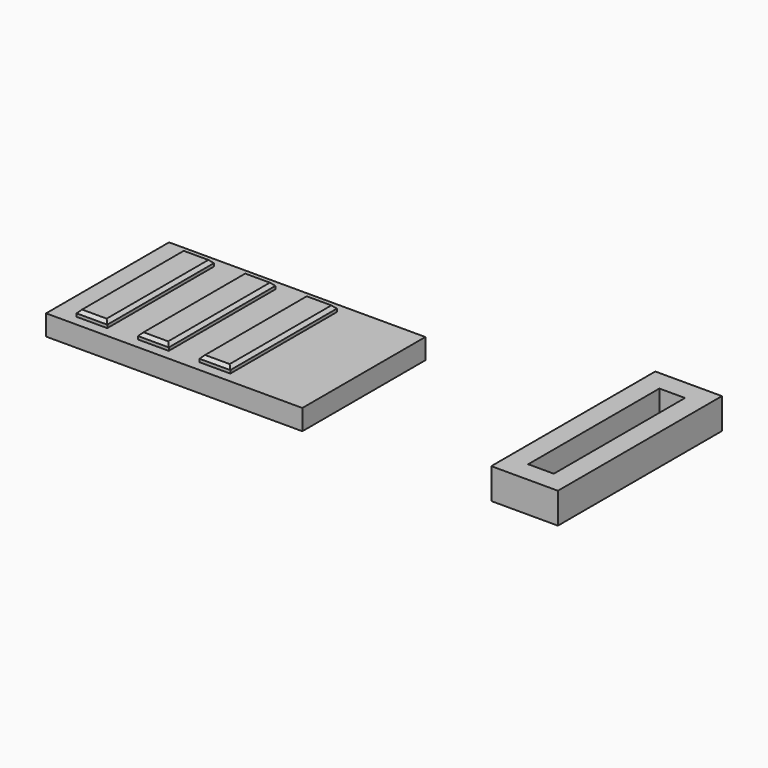
from build123d import *

# Parameters (mm, degrees)
F0_W     = 25
F0_H     = 15
F1_DEPTH = 2
F0_W_2   = 6.5
F0_H_2   = 20
F0_W_3   = 2.5
F0_H_3   = 16
F2_DEPTH = 3
F3_W     = 3
F3_H     = 13
F4_DEPTH = 0.6
F5_SIZE  = 0.3


with BuildPart() as f1:
    # F0 (on Top) → F1 (new body)
    with BuildSketch(Plane.XY):
        with Locations((-18.951613, 7.5)):
            Rectangle(F0_W, F0_H)
    extrude(amount=F1_DEPTH)

    # F3 (on face) → F4 (join)
    with BuildSketch(Plane.XY.offset(2)):
        with Locations((-27.781075, 7.5)):
            Rectangle(F3_W, F3_H)
        with Locations((-21.781075, 7.5)):
            Rectangle(F3_W, F3_H)
        with Locations((-15.781075, 7.5)):
            Rectangle(F3_W, F3_H)
    extrude(amount=F4_DEPTH)

    # F5
    f5_edges = [f1.edges().sort_by_distance(p)[0] for p in [
        (-27.781075, 14, 2.6),
        (-29.281075, 7.5, 2.6),
        (-27.781075, 1, 2.6),
        (-26.281075, 7.5, 2.6),
        (-21.781075, 14, 2.6),
        (-23.281075, 7.5, 2.6),
        (-21.781075, 1, 2.6),
        (-20.281075, 7.5, 2.6),
        (-14.281075, 7.5, 2.6),
        (-15.781075, 14, 2.6),
        (-17.281075, 7.5, 2.6),
        (-15.781075, 1, 2.6),
    ]]
    chamfer(f5_edges, length=F5_SIZE)


with BuildPart() as f2:
    # F0 (on Top) → F2 (new body)
    with BuildSketch(Plane.XY):
        with Locations((15.230984, 10)):
            Rectangle(F0_W_2, F0_H_2)
        with Locations((15.230984, 10)):
            Rectangle(F0_W_3, F0_H_3, mode=Mode.SUBTRACT)
    extrude(amount=F2_DEPTH)


solid = Compound([f1.part, f2.part])
